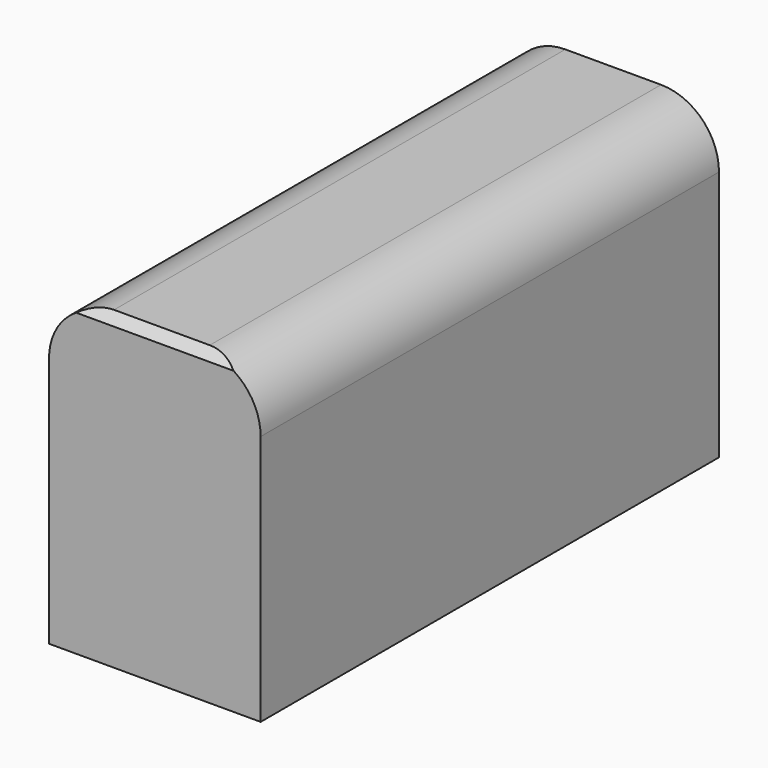
from build123d import *

# Parameters (mm, degrees)
F0_W     = 327.316575
F0_H     = 176.636189
F1_DEPTH = 120.904
F2_SIZE  = 5.08
F3_R     = 33.113353


with BuildPart() as f1:
    # F0 (on Right) → F1 (new body)
    with BuildSketch(Plane.YZ):
        with Locations((112.309161, -65.898135)):
            Rectangle(F0_W, F0_H)
    extrude(amount=F1_DEPTH)

    # F2
    f2_edges = [f1.edges().sort_by_distance(p)[0] for p in [
        (60.452, -51.349126, 22.419959),
    ]]
    chamfer(f2_edges, length=F2_SIZE)

    # F3
    f3_edges = [f1.edges().sort_by_distance(p)[0] for p in [
        (120.904, 114.849162, 22.419959),
        (0, 114.849162, 22.419959),
    ]]
    fillet(f3_edges, radius=F3_R)


solid = f1.part
